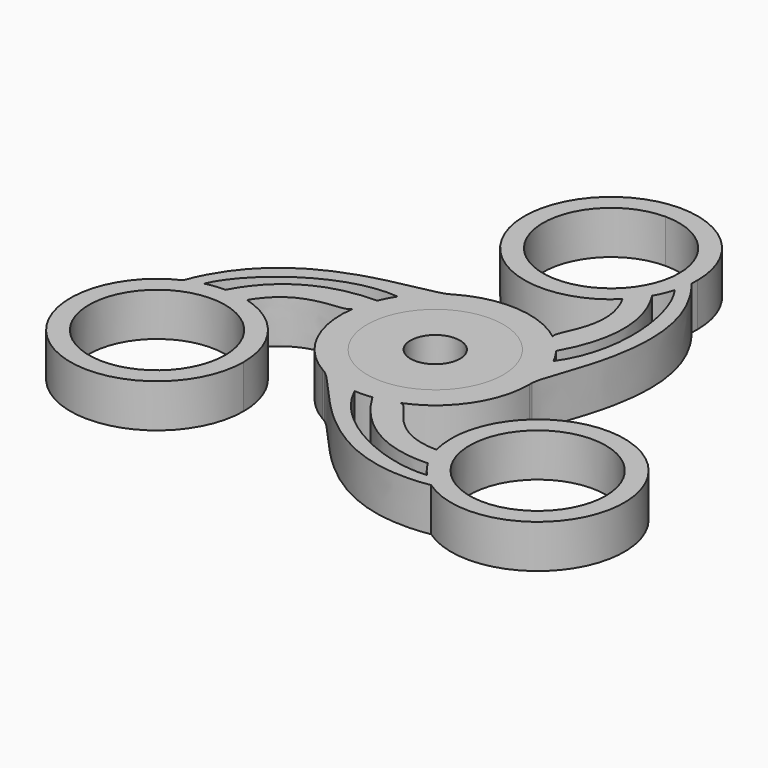
from build123d import *

# Parameters (mm, degrees)
F0_R     = 11
F0_R_2   = 4
F1_DEPTH = 7
F2_DEPTH = 7


with BuildPart() as f1:
    # F0 (on Top) → F1 (new body)
    with BuildSketch(Plane.XY):
        Circle(F0_R)
        Circle(F0_R_2, mode=Mode.SUBTRACT)
    extrude(amount=F1_DEPTH)


with BuildPart() as f2:
    # F0 (on Top) → F2 (new body)
    with BuildSketch(Plane.XY):
        with BuildLine():
            ThreePointArc((14, 35.5046585807), (9.8994949366, 45.4041535174), (0, 49.5046585807))
            ThreePointArc((0, 49.5046585807), (-12.9580703886, 30.2048084128), (9.8108330751, 25.5172888383))
            ThreePointArc((9.8108330751, 25.5172888383), (11.0983257909, 26.9707752537), (12.1723308709, 28.588419634))
            ThreePointArc((12.1723308709, 28.588419634), (12.8897911228, 30.0408426238), (13.4346674784, 31.566421698))
            ThreePointArc((13.4346674784, 31.566421698), (13.7598632413, 32.9227671072), (13.9484835753, 34.3047394379))
            ThreePointArc((13.9484835753, 34.3047394379), (13.9871149644, 34.904146322), (14, 35.5046585807))
        make_face()
        with BuildLine():
            ThreePointArc((11, 35.5046585807), (-7.7781745931, 27.7264839877), (0, 46.5046585807))
            ThreePointArc((0, 46.5046585807), (7.7781745931, 43.2828331738), (11, 35.5046585807))
        make_face(mode=Mode.SUBTRACT)
        with BuildLine():
            ThreePointArc((12.1723308709, 28.588419634), (11.0983257909, 26.9707752537), (9.8108330751, 25.5172888383))
            add(Edge.make_bspline(
                [(9.4517272848, 11.9531855099), (8.1816991863, 13.0922129173), (14.0057700702, 18.2080167226), (9.8108330751, 25.5172888383)],
                knots=[0.1803540845, 0.1803540845, 0.1803540845, 0.1803540845, 13.6112300964, 13.6112300964, 13.6112300964, 13.6112300964], degree=3))
            ThreePointArc((9.4517272848, 11.9531855099), (9.4792735432, 11.9313522115), (9.5067693672, 11.9094554326))
            ThreePointArc((9.5067693672, 11.9094554326), (10.8973285777, 10.6518553487), (12.122925882, 9.2330092906))
            add(Edge.make_bspline(
                [(12.122925882, 9.2330092906), (15.8085282892, 15.7495811582), (16.0773210227, 22.4694218487), (12.1723308709, 28.588419634)],
                knots=[0, 0, 0, 0, 19.3554733968, 19.3554733968, 19.3554733968, 19.3554733968], degree=3))
        make_face()
        with BuildLine():
            add(Edge.make_bspline(
                [(15.2299184457, 0.5132023359), (15.5574350677, 5.1525312386), (25.2311147708, 20.5664775316), (13.9484835753, 34.3047394379)],
                knots=[1.3457221099, 1.3457221099, 1.3457221099, 1.3457221099, 34.3289885081, 34.3289885081, 34.3289885081, 34.3289885081], degree=3))
            ThreePointArc((13.9484835753, 34.3047394379), (13.7598632413, 32.9227671072), (13.4346674784, 31.566421698))
            add(Edge.make_bspline(
                [(13.4346674784, 31.566421698), (17.1492826194, 26.552028954), (18.9610160887, 14.381878078), (13.6060726459, 6.8621118948)],
                knots=[0, 0, 0, 0, 24.7049044237, 24.7049044237, 24.7049044237, 24.7049044237], degree=3))
            ThreePointArc((13.6060726459, 6.8621118948), (14.7633247849, 3.7759811699), (15.2299184457, 0.5132023359))
        make_face()
        with BuildLine():
            add(Edge.make_bspline(
                [(9.5067693672, 11.9094554326), (9.4871151753, 11.923312155), (9.468781627, 11.9378902868), (9.4517272848, 11.9531855099)],
                knots=[0, 0, 0, 0, 0.1803540845, 0.1803540845, 0.1803540845, 0.1803540845], degree=3))
            ThreePointArc((9.4517272848, 11.9531855099), (1.1073491815, 15.1982752407), (-7.6192813392, 13.1969823966))
            add(Edge.make_bspline(
                [(-7.6192813392, 13.1969823966), (-7.7415030756, 13.1035412064), (-7.8887982414, 13.0159652933), (-8.059405483, 12.9328951036)],
                knots=[0, 0, 0, 0, 1.3457221099, 1.3457221099, 1.3457221099, 1.3457221099], degree=3))
            ThreePointArc((-8.059405483, 12.9328951036), (-10.6517580098, 10.8974237231), (-12.7457995474, 8.3521486097))
            ThreePointArc((-12.7457995474, 8.3521486097), (-13.458420674, 7.1473565367), (-14.05748354, 5.8822571367))
            ThreePointArc((-14.05748354, 5.8822571367), (-14.6734416183, 4.1114357074), (-15.0672756334, 2.2783760636))
            add(Edge.make_bspline(
                [(-15.0672756334, 2.2783760636), (-15.0694488111, 2.2544266729), (-15.0729070695, 2.2312602885), (-15.0776259502, 2.2088431833)],
                knots=[0, 0, 0, 0, 0.1803540845, 0.1803540845, 0.1803540845, 0.1803540845], degree=3))
            ThreePointArc((-15.0776259502, 2.2088431833), (-13.7157670429, -6.6401450983), (-7.6192813392, -13.1969823966))
            add(Edge.make_bspline(
                [(-7.6192813392, -13.1969823966), (-7.4772480265, -13.2561089301), (-7.3277574781, -13.339882329), (-7.1705129627, -13.4460974395)],
                knots=[0, 0, 0, 0, 1.3457221099, 1.3457221099, 1.3457221099, 1.3457221099], degree=3))
            ThreePointArc((-7.1705129627, -13.4460974395), (-4.1115667751, -14.673404893), (-0.8602730984, -15.2142605045))
            ThreePointArc((-0.8602730984, -15.2142605045), (0.5394180063, -15.2290124669), (1.934557658, -15.1152664273))
            ThreePointArc((1.934557658, -15.1152664273), (3.7761130406, -14.7632910561), (5.5605062662, -14.1878314962))
            add(Edge.make_bspline(
                [(5.5605062662, -14.1878314962), (5.5823336358, -14.1777388279), (5.6041254425, -14.1691505753), (5.6258986653, -14.1620286933)],
                knots=[0, 0, 0, 0, 0.1803540845, 0.1803540845, 0.1803540845, 0.1803540845], degree=3))
            ThreePointArc((5.6258986653, -14.1620286933), (12.6084178614, -8.5581301424), (15.2385626783, 0))
            add(Edge.make_bspline(
                [(15.2385626783, 0), (15.2187511021, 0.1525677237), (15.2165557195, 0.3239170357), (15.2299184457, 0.5132023359)],
                knots=[0, 0, 0, 0, 1.3457221099, 1.3457221099, 1.3457221099, 1.3457221099], degree=3))
            ThreePointArc((15.2299184457, 0.5132023359), (14.7633247849, 3.7759811699), (13.6060726459, 6.8621118948))
            ThreePointArc((13.6060726459, 6.8621118948), (12.9190026677, 8.0816559302), (12.122925882, 9.2330092906))
            ThreePointArc((12.122925882, 9.2330092906), (10.8973285777, 10.6518553487), (9.5067693672, 11.9094554326))
        make_face()
        Circle(F0_R, mode=Mode.SUBTRACT)
        with BuildLine():
            ThreePointArc((9.5067693672, 11.9094554326), (9.4792735432, 11.9313522115), (9.4517272848, 11.9531855099))
            add(Edge.make_bspline(
                [(9.5067693672, 11.9094554326), (9.4871151753, 11.923312155), (9.468781627, 11.9378902868), (9.4517272848, 11.9531855099)],
                knots=[0, 0, 0, 0, 0.1803540845, 0.1803540845, 0.1803540845, 0.1803540845], degree=3))
        make_face()
        with BuildLine():
            ThreePointArc((15.2385626783, 0), (15.2364014669, 0.2566375656), (15.2299184457, 0.5132023359))
            add(Edge.make_bspline(
                [(15.2385626783, 0), (15.2187511021, 0.1525677237), (15.2165557195, 0.3239170357), (15.2299184457, 0.5132023359)],
                knots=[0, 0, 0, 0, 1.3457221099, 1.3457221099, 1.3457221099, 1.3457221099], degree=3))
        make_face()
        with BuildLine():
            add(Edge.make_bspline(
                [(-7.6192813392, 13.1969823966), (-7.7415030756, 13.1035412064), (-7.8887982414, 13.0159652933), (-8.059405483, 12.9328951036)],
                knots=[0, 0, 0, 0, 1.3457221099, 1.3457221099, 1.3457221099, 1.3457221099], degree=3))
            ThreePointArc((-7.6192813392, 13.1969823966), (-7.8404553848, 13.0667919498), (-8.059405483, 12.9328951036))
        make_face()
        with BuildLine():
            ThreePointArc((-12.7457995474, 8.3521486097), (-10.6517580098, 10.8974237231), (-8.059405483, 12.9328951036))
            add(Edge.make_bspline(
                [(-8.059405483, 12.9328951036), (-12.2409404802, 10.896868367), (-30.4266493942, 11.5675475915), (-36.683017611, -5.0726285984)],
                knots=[1.3457221099, 1.3457221099, 1.3457221099, 1.3457221099, 34.3289885081, 34.3289885081, 34.3289885081, 34.3289885081], degree=3))
            ThreePointArc((-36.683017611, -5.0726285984), (-35.3918842983, -4.544992434), (-34.0546568363, -4.1484475213))
            add(Edge.make_bspline(
                [(-34.0546568363, -4.1484475213), (-31.5693729059, 1.575699928), (-21.935579814, 9.2297825754), (-12.7457995474, 8.3521486097)],
                knots=[0, 0, 0, 0, 24.7049044237, 24.7049044237, 24.7049044237, 24.7049044237], degree=3))
        make_face()
        with BuildLine():
            add(Edge.make_bspline(
                [(5.6258986653, -14.1620286933), (7.247339385, -13.6316658001), (8.7657199992, -21.2333610417), (17.1932038321, -21.2550750945)],
                knots=[0.1803540845, 0.1803540845, 0.1803540845, 0.1803540845, 13.6112300964, 13.6112300964, 13.6112300964, 13.6112300964], degree=3))
            ThreePointArc((5.6258986653, -14.1620286933), (5.5932173451, -14.1749678036), (5.5605062662, -14.1878314962))
            ThreePointArc((5.5605062662, -14.1878314962), (3.7761130406, -14.7632910561), (1.934557658, -15.1152664273))
            add(Edge.make_bspline(
                [(1.934557658, -15.1152664273), (5.7352732373, -21.565377674), (11.4204296179, -25.1580793548), (18.6721322216, -24.8357575745)],
                knots=[0, 0, 0, 0, 19.3554733968, 19.3554733968, 19.3554733968, 19.3554733968], degree=3))
            ThreePointArc((18.6721322216, -24.8357575745), (17.808213634, -23.0968197012), (17.1932038321, -21.2550750945))
        make_face()
        with BuildLine():
            ThreePointArc((5.5605062662, -14.1878314962), (5.5932173451, -14.1749678036), (5.6258986653, -14.1620286933))
            add(Edge.make_bspline(
                [(5.5605062662, -14.1878314962), (5.5823336358, -14.1777388279), (5.6041254425, -14.1691505753), (5.6258986653, -14.1620286933)],
                knots=[0, 0, 0, 0, 0.1803540845, 0.1803540845, 0.1803540845, 0.1803540845], degree=3))
        make_face()
        with BuildLine():
            ThreePointArc((-34.0546568363, -4.1484475213), (-35.3918842983, -4.544992434), (-36.683017611, -5.0726285984))
            ThreePointArc((-36.683017611, -5.0726285984), (-38.2615526372, -29.5652700458), (-16.7479362836, -17.7523292904))
            ThreePointArc((-16.7479362836, -17.7523292904), (-19.603103596, -9.2792717333), (-27.0040369072, -4.2622137438))
            ThreePointArc((-27.0040369072, -4.2622137438), (-28.9065394249, -3.8739555525), (-30.8444630925, -3.7526620595))
            ThreePointArc((-30.8444630925, -3.7526620595), (-32.4610284247, -3.8575347501), (-34.0546568363, -4.1484475213))
        make_face()
        with Locations((-30.7479362836, -17.7523292904)):
            Circle(F0_R, mode=Mode.SUBTRACT)
        with BuildLine():
            ThreePointArc((44.7479362836, -17.7523292904), (28.9824695353, -3.8640922834), (17.1932038321, -21.2550750945))
            ThreePointArc((17.1932038321, -21.2550750945), (17.808213634, -23.0968197012), (18.6721322216, -24.8357575745))
            ThreePointArc((18.6721322216, -24.8357575745), (19.5712373019, -26.1833078737), (20.6199893579, -27.4179741767))
            ThreePointArc((20.6199893579, -27.4179741767), (21.6320210571, -28.3777746731), (22.7345340357, -29.2321108394))
            ThreePointArc((22.7345340357, -29.2321108394), (37.2214348945, -30.1657823045), (44.7479362836, -17.7523292904))
        make_face()
        with Locations((30.7479362836, -17.7523292904)):
            Circle(F0_R, mode=Mode.SUBTRACT)
        with BuildLine():
            ThreePointArc((-15.0672756334, 2.2783760636), (-14.6734416183, 4.1114357074), (-14.05748354, 5.8822571367))
            add(Edge.make_bspline(
                [(-14.05748354, 5.8822571367), (-21.5438015265, 5.8157965158), (-27.4977506407, 2.6886575062), (-30.8444630925, -3.7526620595)],
                knots=[0, 0, 0, 0, 19.3554733968, 19.3554733968, 19.3554733968, 19.3554733968], degree=3))
            ThreePointArc((-30.8444630925, -3.7526620595), (-28.9065394249, -3.8739555525), (-27.0040369072, -4.2622137438))
            add(Edge.make_bspline(
                [(-15.0776259502, 2.2088431833), (-15.4290385713, 0.5394528828), (-22.7714900694, 3.025344319), (-27.0040369072, -4.2622137438)],
                knots=[0.1803540845, 0.1803540845, 0.1803540845, 0.1803540845, 13.6112300964, 13.6112300964, 13.6112300964, 13.6112300964], degree=3))
            ThreePointArc((-15.0776259502, 2.2088431833), (-15.0724908883, 2.243615592), (-15.0672756334, 2.2783760636))
        make_face()
        with BuildLine():
            add(Edge.make_bspline(
                [(-15.0672756334, 2.2783760636), (-15.0694488111, 2.2544266729), (-15.0729070695, 2.2312602885), (-15.0776259502, 2.2088431833)],
                knots=[0, 0, 0, 0, 0.1803540845, 0.1803540845, 0.1803540845, 0.1803540845], degree=3))
            ThreePointArc((-15.0672756334, 2.2783760636), (-15.0724908883, 2.243615592), (-15.0776259502, 2.2088431833))
        make_face()
        with BuildLine():
            add(Edge.make_bspline(
                [(20.6199893579, -27.4179741767), (14.4200902865, -28.1277288821), (2.9745637253, -23.6116606534), (-0.8602730984, -15.2142605045)],
                knots=[0, 0, 0, 0, 24.7049044237, 24.7049044237, 24.7049044237, 24.7049044237], degree=3))
            ThreePointArc((-0.8602730984, -15.2142605045), (-4.1115667751, -14.673404893), (-7.1705129627, -13.4460974395))
            add(Edge.make_bspline(
                [(-7.1705129627, -13.4460974395), (-3.3164945874, -16.0493996056), (5.1955346233, -32.1340251231), (22.7345340357, -29.2321108394)],
                knots=[1.3457221099, 1.3457221099, 1.3457221099, 1.3457221099, 34.3289885081, 34.3289885081, 34.3289885081, 34.3289885081], degree=3))
            ThreePointArc((22.7345340357, -29.2321108394), (21.6320210571, -28.3777746731), (20.6199893579, -27.4179741767))
        make_face()
        with BuildLine():
            ThreePointArc((-7.6192813392, -13.1969823966), (-7.3959460821, -13.3234295154), (-7.1705129627, -13.4460974395))
            add(Edge.make_bspline(
                [(-7.6192813392, -13.1969823966), (-7.4772480265, -13.2561089301), (-7.3277574781, -13.339882329), (-7.1705129627, -13.4460974395)],
                knots=[0, 0, 0, 0, 1.3457221099, 1.3457221099, 1.3457221099, 1.3457221099], degree=3))
        make_face()
    extrude(amount=F2_DEPTH)


solid = Compound([f1.part, f2.part])
